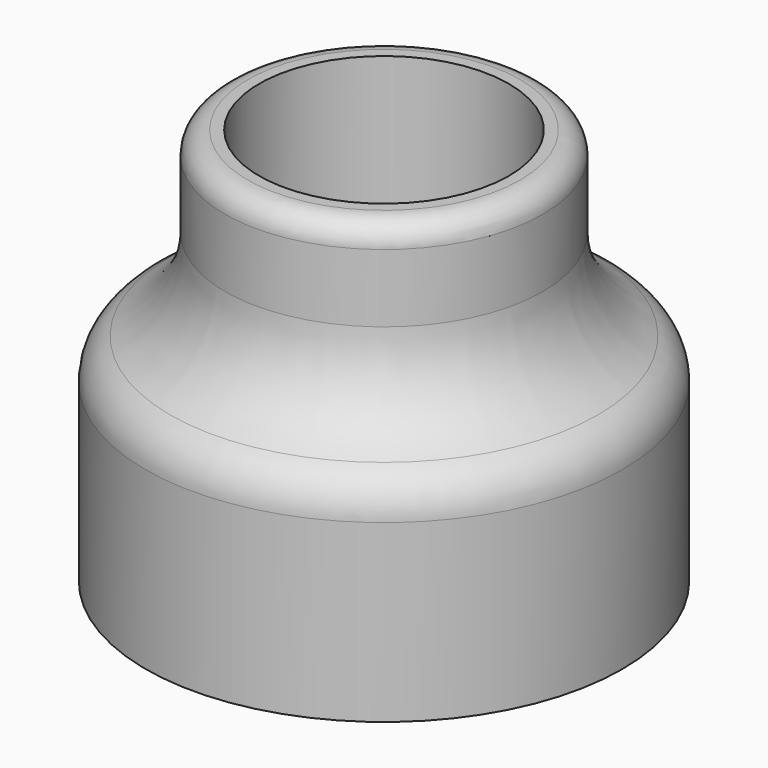
from build123d import *


with BuildPart() as f1:
    # F0 (on Front) → F1 (revolve)
    with BuildSketch(Plane.XZ):
        with BuildLine():
            Line((7.5, 7.5), (7.5, 0))
            Line((7.5, 0), (10.5, 0))
            Line((10.5, 0), (10.5, 7.733719))
            ThreePointArc((10.5, 7.733719), (10.209701, 8.771468), (9.423077, 9.507959))
            ThreePointArc((9.423077, 9.507959), (7.653173, 11.165065), (7, 13.5))
            Line((7, 13.5), (7, 16.5))
            ThreePointArc((7, 16.5), (6.707107, 17.207107), (6, 17.5))
            Line((6, 17.5), (5.500039, 17.5))
            Line((5.500039, 17.5), (5.500039, 7.5))
            Line((5.500039, 7.5), (7.5, 7.5))
        make_face()
    revolve(axis=Axis((0, 0, 9.159326), (0, 0, 1)))


solid = f1.part
